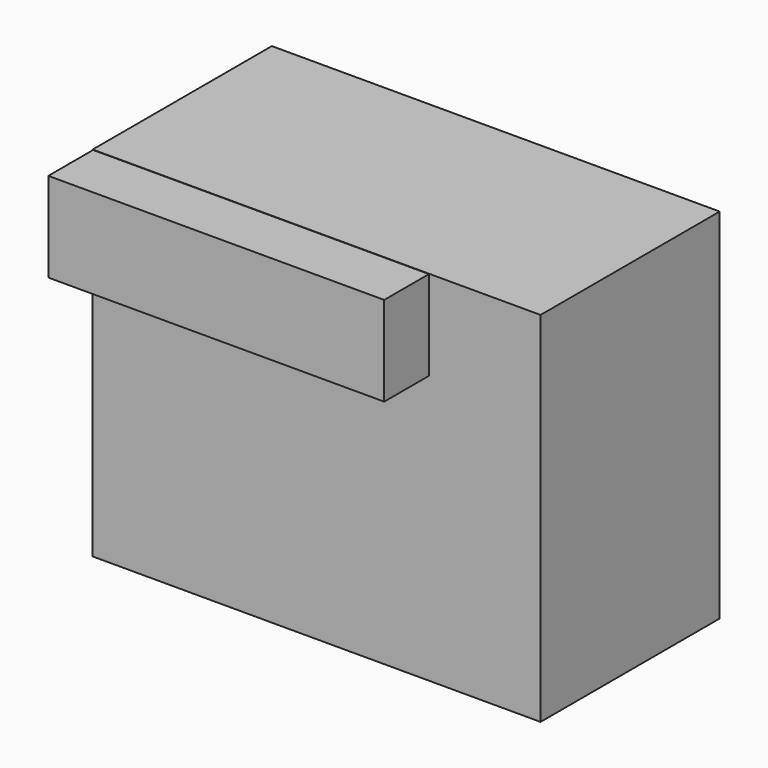
from build123d import *

# Parameters (mm, degrees)
F0_W     = 101.6
F0_H     = 50.8
F1_DEPTH = 81.28
F3_W     = 76.2
F3_H     = 20.32
F4_DEPTH = 12.7


with BuildPart() as f1:
    # F0 (on Top) → F1 (new body)
    with BuildSketch(Plane.XY):
        Rectangle(F0_W, F0_H)
    extrude(amount=F1_DEPTH)

    # F3 (on offset) → F4 (join)
    with BuildSketch(Plane.XZ.offset(25.4)):
        with Locations((-12.610486, 71.049867)):
            Rectangle(F3_W, F3_H)
    extrude(amount=F4_DEPTH)


solid = f1.part
